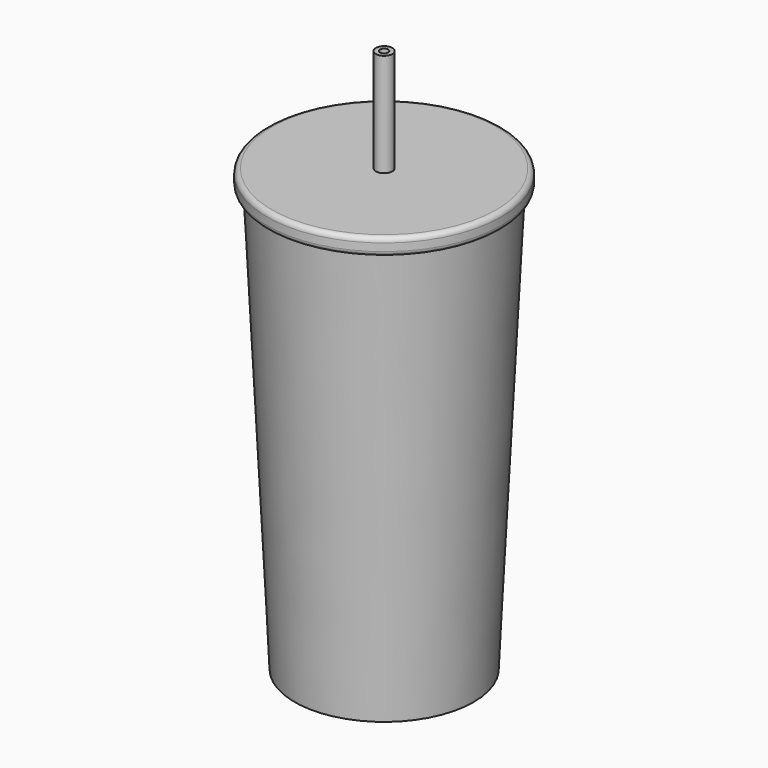
from build123d import *

# Parameters (mm, degrees)
F0_W     = 0.6
F0_H     = 15
F2_R     = 1.6
F3_DEPTH = 48.5


with BuildPart() as f1:
    # F0 (on Front) → F1 (revolve)
    with BuildSketch(Plane.XZ):
        with Locations((0.9, 71.5)):
            Rectangle(F0_W, F0_H)
        with BuildLine():
            Line((0, 64), (0, 61.5))
            Line((0, 61.5), (16, 61.5))
            Line((16, 61.5), (16.3, 61.5))
            ThreePointArc((16.3, 61.5), (16.794975, 61.705025), (17, 62.2))
            Line((17, 62.2), (17, 63.3))
            ThreePointArc((17, 63.3), (16.794975, 63.794975), (16.3, 64))
            Line((16.3, 64), (1.2, 64))
            Line((1.2, 64), (0.6, 64))
            Line((0.6, 64), (0, 64))
        make_face()
        Polygon((0, 61.5), (0, 0), (13, 0), (16, 61.5), align=None)
    revolve(axis=Axis((0, 0, 71.5), (0, 0, 1)))

    # F2 (on face) → F3 (cut)
    with BuildSketch(Plane(origin=(0, 0, 0), x_dir=(1, 0, 0), z_dir=(0, 0, -1))):
        Circle(F2_R)
    extrude(amount=-F3_DEPTH, mode=Mode.SUBTRACT)


solid = f1.part
